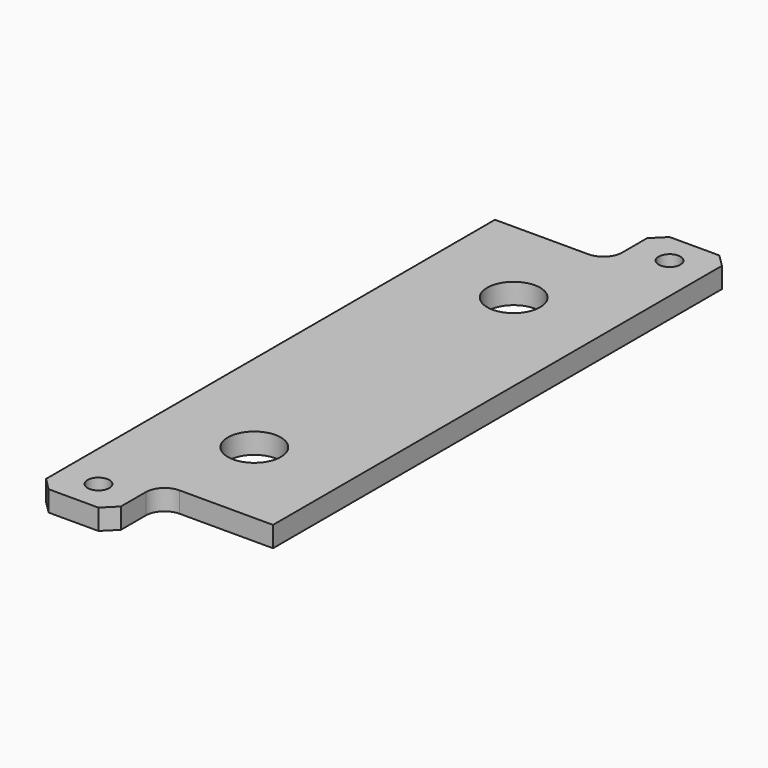
from build123d import *

# Parameters (mm, degrees)
F0_W      = 12
F0_H      = 10
F1_DEPTH  = 3.3
F2_SIZE   = 2
F3_R      = 3
F4_R      = 3
F5_R      = 1.75
F6_DEPTH  = 25
F7_R      = 2.5
F8_DEPTH  = 25
F9_R      = 4.25
F10_DEPTH = 25


with BuildPart() as f1:
    # F0 (on Top) → F1 (new body)
    with BuildSketch(Plane.XY):
        Polygon((15, -41), (15, 41), (3, 41), (-15, 41), (-15, -41), (-3, -41), align=None)
        with Locations((9, 46)):
            Rectangle(F0_W, F0_H)
        with Locations((-9, -46)):
            Rectangle(F0_W, F0_H)
    extrude(amount=F1_DEPTH)

    # F2
    f2_edges = [f1.edges().sort_by_distance(p)[0] for p in [
        (15, 51, 1.65),
        (3, 51, 1.65),
        (-15, -51, 1.65),
        (-3, -51, 1.65),
    ]]
    chamfer(f2_edges, length=F2_SIZE)

    # F3
    f3_edges = [f1.edges().sort_by_distance(p)[0] for p in [
        (3, 41, 1.65),
    ]]
    fillet(f3_edges, radius=F3_R)

    # F4
    f4_edges = [f1.edges().sort_by_distance(p)[0] for p in [
        (-3, -41, 1.65),
    ]]
    fillet(f4_edges, radius=F4_R)

    # F5 (on face) → F6 (cut)
    with BuildSketch(Plane.XY.offset(3.3)):
        with Locations((9, 46)):
            Circle(F5_R)
        with Locations((-9, -46)):
            Circle(F5_R)
    extrude(amount=-F6_DEPTH, mode=Mode.SUBTRACT)

    # F7 (on face) → F8 (cut)
    with BuildSketch(Plane.XY.offset(3.3)):
        with Locations((0, 26)):
            Circle(F7_R)
        with Locations((0, -26)):
            Circle(F7_R)
    extrude(amount=-F8_DEPTH, mode=Mode.SUBTRACT)

    # F9 (on face) → F10 (cut)
    with BuildSketch(Plane.XY.offset(3.3)):
        with Locations((0, 26)):
            Circle(F9_R)
        with Locations((0, -26)):
            Circle(F9_R)
    extrude(amount=-F10_DEPTH, mode=Mode.SUBTRACT)


solid = f1.part
